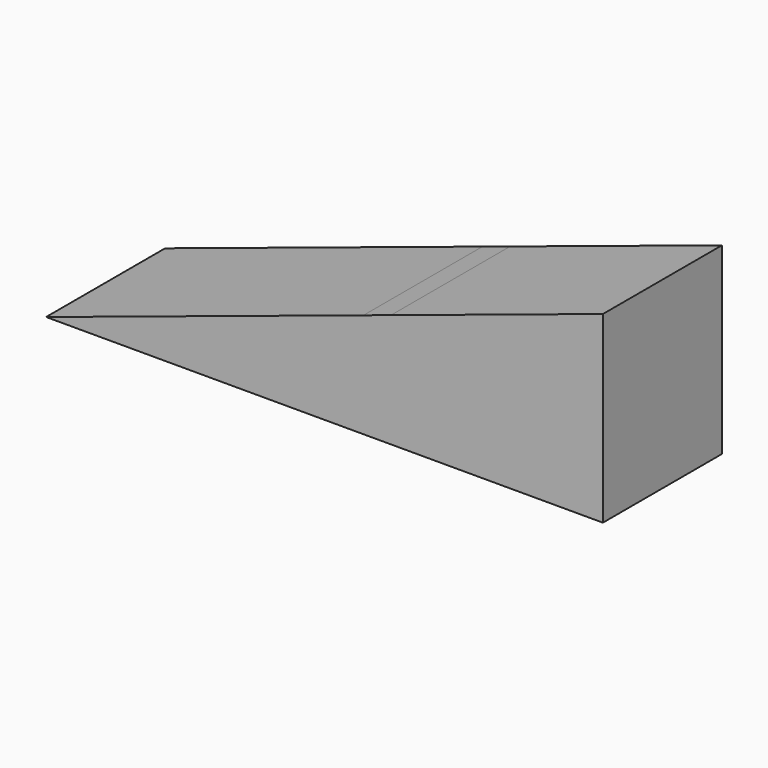
from build123d import *

# Parameters (mm, degrees)
F1_DEPTH = 25


with BuildPart() as f1:
    # F0 (on Front) → F1 (new body)
    with BuildSketch(Plane.XZ):
        Polygon((0, 17.594816), (-53.327836, 0), (0, 0), align=None)
        Polygon((4.636515, 19.124573), (4.636515, 0), (40.235326, 0), (40.235326, 30.869931), align=None)
        Polygon((0, 17.594816), (-53.327836, 0), (0, 0), align=None)
        Polygon((0, 17.594816), (0, 0), (4.636515, 0), (4.636515, 19.124573), align=None)
        Polygon((4.636515, 19.124573), (4.636515, 0), (40.235326, 0), (40.235326, 30.869931), align=None)
    extrude(amount=F1_DEPTH)


solid = f1.part
